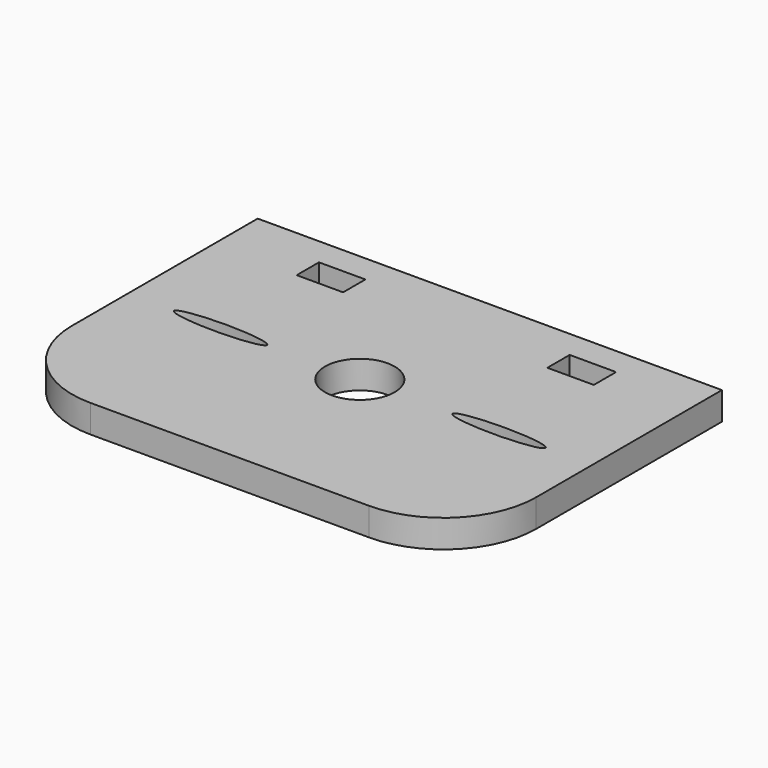
from build123d import *

# Parameters (mm, degrees)
F0_W     = 5
F0_H     = 3
F0_R     = 3.75
F1_DEPTH = 3


with BuildPart() as f1:
    # F0 (on Top) → F1 (new body)
    with BuildSketch(Plane.XY):
        with BuildLine():
            Line((25, 17.5), (-25, 17.5))
            Line((-25, 17.5), (-25, -7.5))
            ThreePointArc((-25, -7.5), (-22.071068, -14.571068), (-15, -17.5))
            Line((-15, -17.5), (15, -17.5))
            ThreePointArc((15, -17.5), (22.071068, -14.571068), (25, -7.5))
            Line((25, -7.5), (25, 17.5))
        make_face()
        with BuildLine():
            add(Edge.make_bspline(
                [(-20, 0), (-20, -1.299038), (-12.5, -0.649519), (-5, 0), (-12.5, 0.649519), (-20, 1.299038), (-20, 0)],
                knots=[0, 0, 0, 2.094395, 2.094395, 4.18879, 4.18879, 6.283185, 6.283185, 6.283185], degree=2, weights=[1, 0.5, 1, 0.5, 1, 0.5, 1]))
        make_face(mode=Mode.SUBTRACT)
        with Locations((-13.5, 13)):
            Rectangle(F0_W, F0_H, mode=Mode.SUBTRACT)
        Circle(F0_R, mode=Mode.SUBTRACT)
        with BuildLine():
            add(Edge.make_bspline(
                [(10, 0), (10, -1.299038), (17.5, -0.649519), (25, 0), (17.5, 0.649519), (10, 1.299038), (10, 0)],
                knots=[0, 0, 0, 2.094395, 2.094395, 4.18879, 4.18879, 6.283185, 6.283185, 6.283185], degree=2, weights=[1, 0.5, 1, 0.5, 1, 0.5, 1]))
        make_face(mode=Mode.SUBTRACT)
        with Locations((13.5, 13)):
            Rectangle(F0_W, F0_H, mode=Mode.SUBTRACT)
    extrude(amount=-F1_DEPTH)


solid = f1.part
